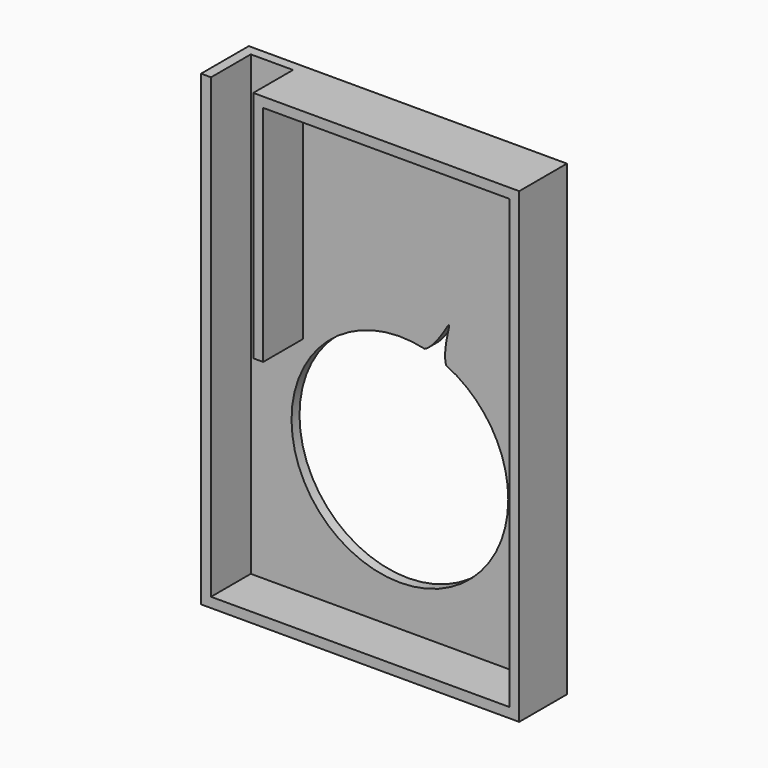
from build123d import *

# Parameters (mm, degrees)
F1_DEPTH = 2
F2_DEPTH = 12


with BuildPart() as f1:
    # F0 (on Front) → F1 (new body)
    with BuildSketch(Plane.XZ):
        Polygon((-2, 92), (-51.5, 92), (-51.5, 47), (-53.5, 47), (-53.5, 92), (-53.5, 94), (-62, 94), (-62, 92), (-62, 2), (-2, 2), align=None)
        with BuildLine():
            ThreePointArc((-22.7087091552, 51.7208497392), (-13.590897083, 43.6766831674), (-10.2, 32))
            ThreePointArc((-10.2, 32), (-49.0919159647, 18.468318336), (-26.9987530877, 53.2185656754))
            add(Edge.make_bspline(
                [(-26.9987530877, 53.2185656754), (-24.4873575866, 54.5370578766), (-20.2584321024, 63.7433975521), (-23.4722821766, 54.1851879817), (-22.7087091552, 51.7208497392)],
                knots=[0, 0, 0, 0, 0.5042301337, 1, 1, 1, 1], degree=3))
        make_face(mode=Mode.SUBTRACT)
    extrude(amount=F1_DEPTH)

    # F0 (on Front) → F2 (join)
    with BuildSketch(Plane.XZ):
        Polygon((-51.5, 47), (-51.5, 92), (-2, 92), (-2, 2), (-62, 2), (-62, 92), (-62, 94), (-64, 94), (-64, 0), (0, 0), (0, 94), (-53.5, 94), (-53.5, 92), (-53.5, 47), align=None)
    extrude(amount=F2_DEPTH)


solid = f1.part
